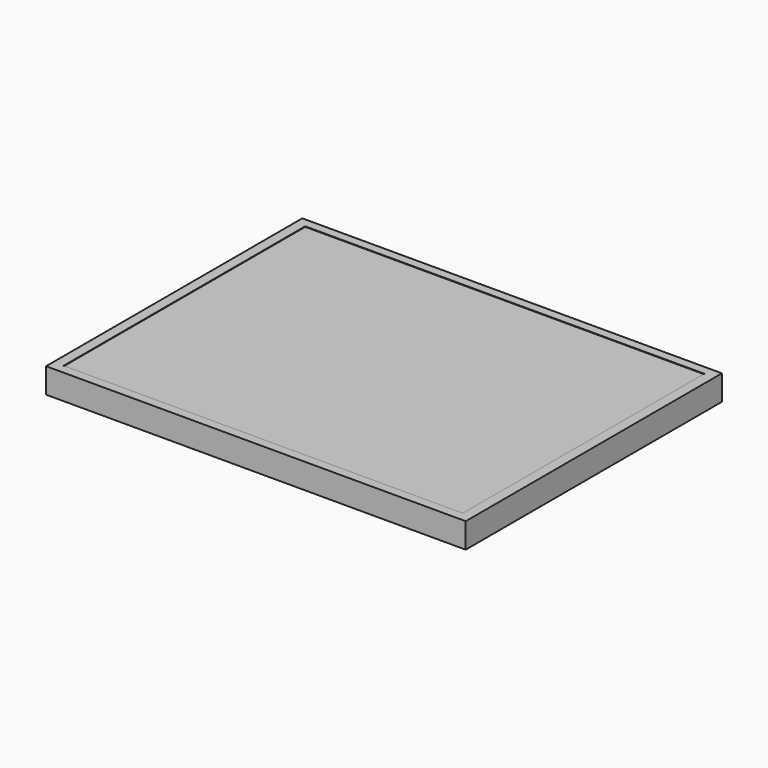
from build123d import *

# Parameters (mm, degrees)
F0_W     = 435
F0_H     = 332
F1_DEPTH = 26
F2_W     = 413.8
F2_H     = 313
F3_DEPTH = 0.5
F4_W     = 290
F4_H     = 160
F5_DEPTH = 32
F6_W     = 45.65622
F6_H     = 10.88232
F7_DEPTH = 5


with BuildPart() as f1:
    # F0 (on Top) → F1 (new body)
    with BuildSketch(Plane.XY):
        Rectangle(F0_W, F0_H)
    extrude(amount=F1_DEPTH)

    # F2 (on face) → F3 (cut)
    with BuildSketch(Plane.XY.offset(26)):
        Rectangle(F2_W, F2_H)
    extrude(amount=-F3_DEPTH, mode=Mode.SUBTRACT)

    # F4 (on face) → F5 (join)
    with BuildSketch(Plane.XY):
        with Locations((-22.5, -6)):
            Rectangle(F4_W, F4_H)
    extrude(amount=-F5_DEPTH)

    # F6 (on face) → F7 (cut)
    with BuildSketch(Plane(origin=(0, 74, 0), x_dir=(-1, 0, 0), z_dir=(0, 1, 0))):
        with Locations((45.32811, -15.279424)):
            Rectangle(F6_W, F6_H)
    extrude(amount=-F7_DEPTH, mode=Mode.SUBTRACT)


solid = f1.part
